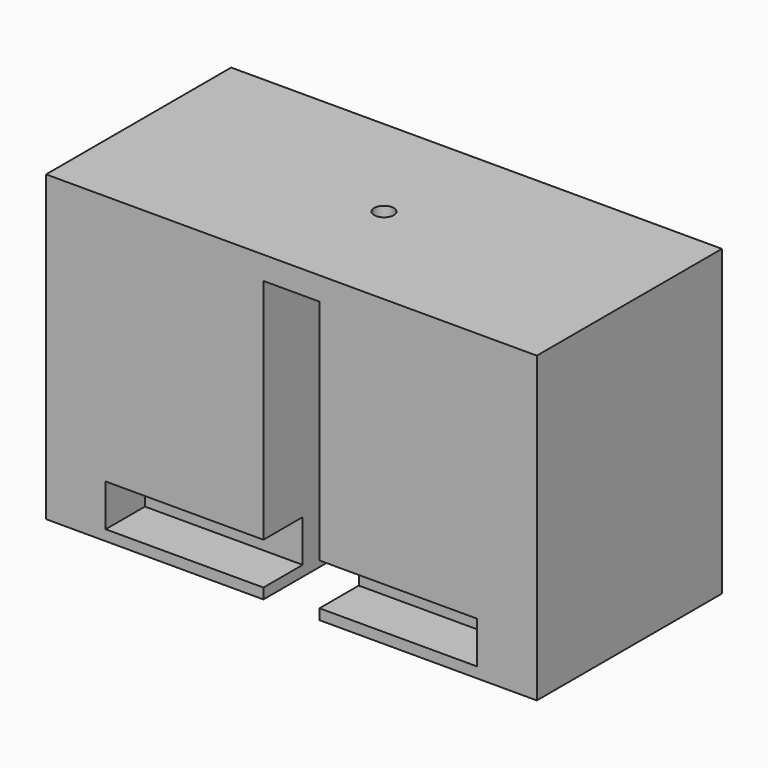
from build123d import *

# Parameters (mm, degrees)
F0_W     = 70
F0_H     = 33
F0_R     = 1.4
F1_DEPTH = 43.3
F3_DEPTH = 40
F4_W     = 53
F4_H     = 6
F5_DEPTH = 7
F6_W     = 53
F6_H     = 6
F7_DEPTH = 7


with BuildPart() as f1:
    # F0 (on Top) → F1 (new body)
    with BuildSketch(Plane.XY):
        Rectangle(F0_W, F0_H)
        Circle(F0_R, mode=Mode.SUBTRACT)
    extrude(amount=F1_DEPTH)

    # F2 (on face) → F3 (cut)
    with BuildSketch(Plane(origin=(0, 0, 0), x_dir=(1, 0, 0), z_dir=(0, 0, -1))):
        with BuildLine():
            Line((4, 18.442246), (-4, 18.442246))
            Line((-4, 18.442246), (-4, 0))
            ThreePointArc((-4, 0), (0, -4), (4, 0))
            Line((4, 0), (4, 18.442246))
        make_face()
    extrude(amount=-F3_DEPTH, mode=Mode.SUBTRACT)

    # F4 (on face) → F5 (cut)
    with BuildSketch(Plane.XZ.offset(16.5)):
        with Locations((0, 4.5)):
            Rectangle(F4_W, F4_H)
    extrude(amount=-F5_DEPTH, mode=Mode.SUBTRACT)

    # F6 (on face) → F7 (cut)
    with BuildSketch(Plane(origin=(0, 16.5, 0), x_dir=(-1, 0, 0), z_dir=(0, 1, 0))):
        with Locations((0, 4.5)):
            Rectangle(F6_W, F6_H)
    extrude(amount=-F7_DEPTH, mode=Mode.SUBTRACT)


solid = f1.part
